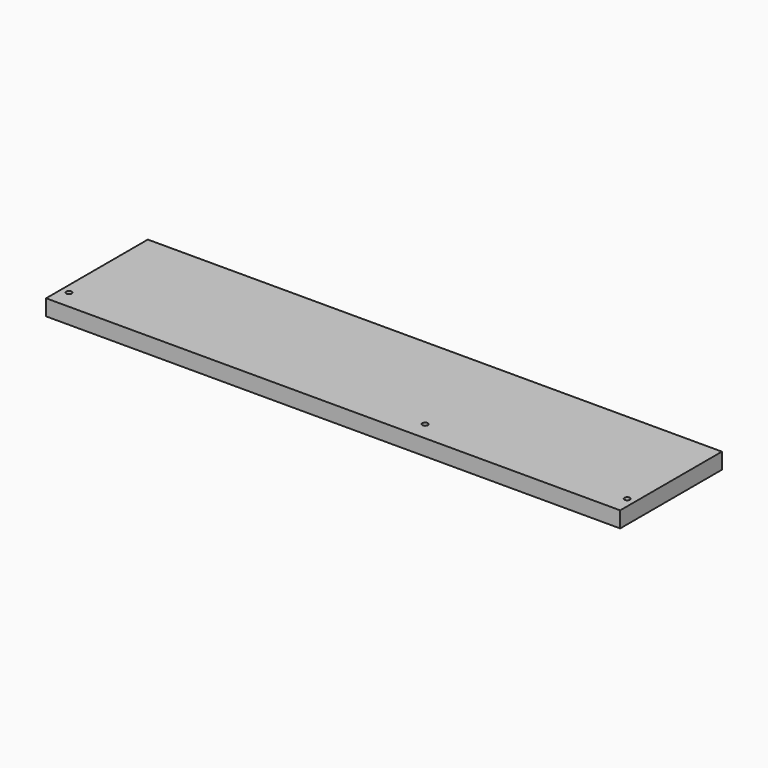
from build123d import *

# Parameters (mm, degrees)
F0_W     = 685.8
F0_H     = 151.892
F1_DEPTH = 19.05
F2_R     = 3.302
F3_DEPTH = 19.05


with BuildPart() as f1:
    # F0 (on Top) → F1 (new body)
    with BuildSketch(Plane.XY):
        Rectangle(F0_W, F0_H)
    extrude(amount=F1_DEPTH)

    # F2 (on face) → F3 (cut)
    with BuildSketch(Plane.XY.offset(19.05)):
        with Locations((-333.375, -53.594)):
            Circle(F2_R)
        with Locations((92.075, -53.594)):
            Circle(F2_R)
        with Locations((333.375, -53.594)):
            Circle(F2_R)
    extrude(amount=-F3_DEPTH, mode=Mode.SUBTRACT)


solid = f1.part
